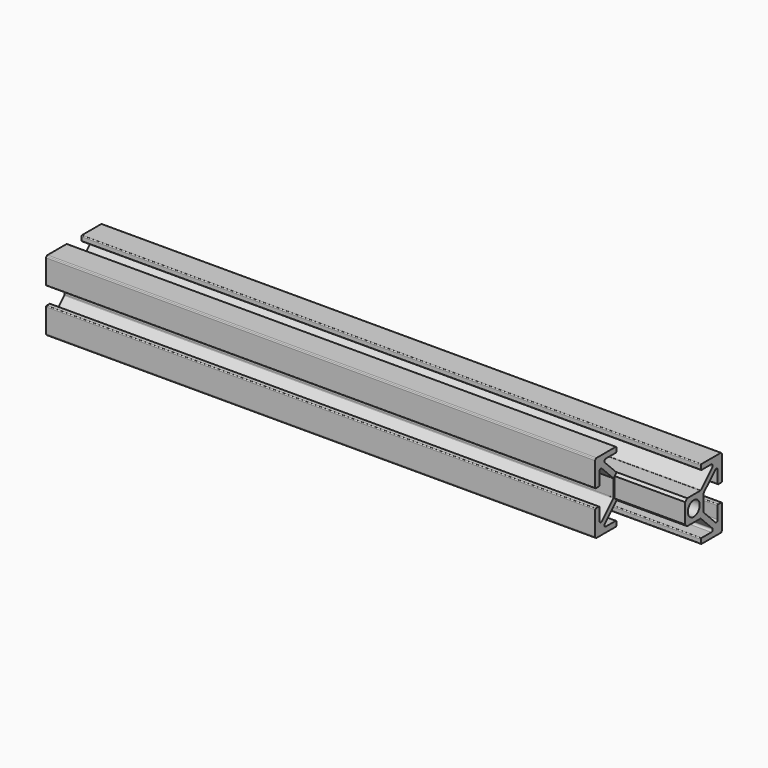
from build123d import *

# Parameters (mm, degrees)
F0_R     = 2.1
F1_DEPTH = 176
F3_DEPTH = 20
F4_R     = 1.8
F5_DEPTH = 3
F7_DEPTH = 3


with BuildPart() as f1:
    # F0 (on Right) → F1 (new body)
    with BuildSketch(Plane.YZ):
        with BuildLine():
            ThreePointArc((-3.0128, 9.379494), (-3.086023, 9.556271), (-3.2628, 9.629494))
            Line((-3.2628, 9.629494), (-10.0128, 9.629494))
            ThreePointArc((-10.0128, 9.629494), (-10.204141, 9.591434), (-10.366353, 9.483048))
            ThreePointArc((-10.366353, 9.483048), (-10.474739, 9.320836), (-10.5128, 9.129494))
            Line((-10.5128, 9.129494), (-10.5128, 2.379494))
            ThreePointArc((-10.5128, 2.379494), (-10.439576, 2.202718), (-10.2628, 2.129494))
            Line((-10.2628, 2.129494), (-9.259825, 2.129494))
            ThreePointArc((-9.259825, 2.129494), (-9.083049, 2.202718), (-9.009825, 2.379494))
            Line((-9.009825, 2.379494), (-9.009825, 5.807272))
            ThreePointArc((-9.009825, 5.807272), (-8.729049, 6.312544), (-8.159246, 6.215281))
            Line((-8.159246, 6.215281), (-4.086023, 2.142057))
            ThreePointArc((-4.086023, 2.142057), (-4.03183, 2.060952), (-4.0128, 1.965281))
            Line((-4.0128, 1.965281), (-4.0128, -2.706292))
            ThreePointArc((-4.0128, -2.706292), (-4.03183, -2.801963), (-4.086023, -2.883069))
            Line((-4.086023, -2.883069), (-8.159246, -6.956292))
            ThreePointArc((-8.159246, -6.956292), (-8.704141, -7.064679), (-9.0128, -6.602739))
            Line((-9.0128, -6.602739), (-9.0128, -3.120506))
            ThreePointArc((-9.0128, -3.120506), (-9.086023, -2.943729), (-9.2628, -2.870506))
            Line((-9.2628, -2.870506), (-10.2628, -2.870506))
            ThreePointArc((-10.2628, -2.870506), (-10.439576, -2.943729), (-10.5128, -3.120506))
            Line((-10.5128, -3.120506), (-10.5128, -9.870506))
            ThreePointArc((-10.5128, -9.870506), (-10.474739, -10.061847), (-10.366353, -10.224059))
            ThreePointArc((-10.366353, -10.224059), (-10.213025, -10.328665), (-10.032104, -10.370133))
            Line((-10.032104, -10.370133), (-3.249152, -10.370133))
            ThreePointArc((-3.249152, -10.370133), (-3.081262, -10.29239), (-3.0128, -10.120506))
            Line((-3.0128, -10.120506), (-3.0128, -9.120506))
            ThreePointArc((-3.0128, -9.120506), (-3.086023, -8.943729), (-3.2628, -8.870506))
            Line((-3.2628, -8.870506), (-6.745033, -8.870506))
            ThreePointArc((-6.745033, -8.870506), (-7.206973, -8.561847), (-7.098586, -8.016952))
            Line((-7.098586, -8.016952), (-3.025363, -3.943729))
            ThreePointArc((-3.025363, -3.943729), (-2.944257, -3.889536), (-2.848586, -3.870506))
            Line((-2.848586, -3.870506), (1.822987, -3.870506))
            ThreePointArc((1.822987, -3.870506), (1.918658, -3.889536), (1.999763, -3.943729))
            Line((1.999763, -3.943729), (6.072987, -8.016952))
            ThreePointArc((6.072987, -8.016952), (6.181373, -8.561847), (5.719433, -8.870506))
            Line((5.719433, -8.870506), (2.249763, -8.870506))
            ThreePointArc((2.249763, -8.870506), (2.072987, -8.943729), (1.999763, -9.120506))
            Line((1.999763, -9.120506), (1.999763, -10.120506))
            ThreePointArc((1.999763, -10.120506), (2.068226, -10.29239), (2.236116, -10.370133))
            Line((2.236116, -10.370133), (9.006504, -10.370133))
            ThreePointArc((9.006504, -10.370133), (9.187425, -10.328665), (9.340754, -10.224059))
            ThreePointArc((9.340754, -10.224059), (9.437101, -10.088655), (9.483749, -9.929152))
            Line((9.483749, -9.929152), (9.483749, -3.079108))
            ThreePointArc((9.483749, -3.079108), (9.398679, -2.929653), (9.2372, -2.870506))
            Line((9.2372, -2.870506), (8.2372, -2.870506))
            ThreePointArc((8.2372, -2.870506), (8.060424, -2.943729), (7.9872, -3.120506))
            Line((7.9872, -3.120506), (7.9872, -6.602739))
            ThreePointArc((7.9872, -6.602739), (7.678542, -7.064679), (7.133647, -6.956292))
            Line((7.133647, -6.956292), (3.060424, -2.883069))
            ThreePointArc((3.060424, -2.883069), (3.00623, -2.801963), (2.9872, -2.706292))
            Line((2.9872, -2.706292), (2.9872, 1.965281))
            ThreePointArc((2.9872, 1.965281), (3.00623, 2.060952), (3.060424, 2.142057))
            Line((3.060424, 2.142057), (7.133647, 6.215281))
            ThreePointArc((7.133647, 6.215281), (7.678542, 6.323667), (7.9872, 5.861727))
            Line((7.9872, 5.861727), (7.9872, 2.379494))
            ThreePointArc((7.9872, 2.379494), (8.060424, 2.202718), (8.2372, 2.129494))
            Line((8.2372, 2.129494), (9.2372, 2.129494))
            ThreePointArc((9.2372, 2.129494), (9.398679, 2.188642), (9.483749, 2.338097))
            Line((9.483749, 2.338097), (9.483749, 9.188141))
            ThreePointArc((9.483749, 9.188141), (9.437101, 9.347644), (9.340754, 9.483048))
            ThreePointArc((9.340754, 9.483048), (9.178542, 9.591434), (8.9872, 9.629494))
            Line((8.9872, 9.629494), (2.2372, 9.629494))
            ThreePointArc((2.2372, 9.629494), (2.060424, 9.556271), (1.9872, 9.379494))
            Line((1.9872, 9.379494), (1.9872, 8.379494))
            ThreePointArc((1.9872, 8.379494), (1.990361, 8.339866), (1.999763, 8.30124))
            ThreePointArc((1.999763, 8.30124), (2.09068, 8.176931), (2.2372, 8.129494))
            Line((2.2372, 8.129494), (5.719433, 8.129494))
            ThreePointArc((5.719433, 8.129494), (6.181373, 7.820836), (6.072987, 7.275941))
            Line((6.072987, 7.275941), (1.999763, 3.202718))
            ThreePointArc((1.999763, 3.202718), (1.918658, 3.148524), (1.822987, 3.129494))
            Line((1.822987, 3.129494), (-2.848586, 3.129494))
            ThreePointArc((-2.848586, 3.129494), (-2.944257, 3.148524), (-3.025363, 3.202718))
            Line((-3.025363, 3.202718), (-7.098586, 7.275941))
            ThreePointArc((-7.098586, 7.275941), (-7.206973, 7.820836), (-6.745033, 8.129494))
            Line((-6.745033, 8.129494), (-3.2628, 8.129494))
            ThreePointArc((-3.2628, 8.129494), (-3.086023, 8.202718), (-3.0128, 8.379494))
            Line((-3.0128, 8.379494), (-3.0128, 8.879494))
            Line((-3.0128, 8.879494), (-3.0128, 9.379494))
        make_face()
        with Locations((-0.5128, -0.370506)):
            Circle(F0_R, mode=Mode.SUBTRACT)
    extrude(amount=F1_DEPTH)

    # F2 (on face) → F3 (cut)
    with BuildSketch(Plane.YZ.offset(176)):
        Polygon((-3.0128, 9.629494), (-4.0128, 9.629494), (-10.5128, 9.629494), (-10.5128, -10.370133), (-4.0128, -10.370133), (-3.0128, -10.370133), (-3.0128, -8.870506), (-2.848586, -3.870506), (-3.578855, -3.140237), (-3.578855, 2.459237), (-2.848586, 3.129494), (-3.0128, 8.129494), align=None)
    extrude(amount=-F3_DEPTH, mode=Mode.SUBTRACT)

    # F4 (on face) → F5 (cut)
    with BuildSketch(Plane(origin=(0, 2.9872, 0), x_dir=(-1, 0, 0), z_dir=(0, 1, 0))):
        with Locations((-166, -0.370506)):
            Circle(F4_R)
        with Locations((-10, -0.370506)):
            Circle(F4_R)
    extrude(amount=-F5_DEPTH, mode=Mode.SUBTRACT)

    # F6 (on face) → F7 (cut)
    with BuildSketch(Plane.XY.offset(3.129494)):
        with BuildLine():
            ThreePointArc((139.2, -0.5128), (141, -2.3128), (142.8, -0.5128))
            Line((142.8, -0.5128), (139.2, -0.5128))
        make_face()
        with BuildLine():
            Line((139.2, -0.5128), (142.8, -0.5128))
            ThreePointArc((142.8, -0.5128), (141, 1.2872), (139.2, -0.5128))
        make_face()
        with BuildLine():
            ThreePointArc((29.2, -0.5128), (31, -2.3128), (32.8, -0.5128))
            Line((32.8, -0.5128), (29.2, -0.5128))
        make_face()
        with BuildLine():
            Line((29.2, -0.5128), (32.8, -0.5128))
            ThreePointArc((32.8, -0.5128), (31, 1.2872), (29.2, -0.5128))
        make_face()
        with BuildLine():
            ThreePointArc((64.2, -0.5128), (66, -2.3128), (67.8, -0.5128))
            Line((67.8, -0.5128), (64.2, -0.5128))
        make_face()
        with BuildLine():
            Line((64.2, -0.5128), (67.8, -0.5128))
            ThreePointArc((67.8, -0.5128), (66, 1.2872), (64.2, -0.5128))
        make_face()
        with BuildLine():
            ThreePointArc((104.2, -0.5128), (106, -2.3128), (107.8, -0.5128))
            Line((107.8, -0.5128), (104.2, -0.5128))
        make_face()
        with BuildLine():
            Line((104.2, -0.5128), (107.8, -0.5128))
            ThreePointArc((107.8, -0.5128), (106, 1.2872), (104.2, -0.5128))
        make_face()
    extrude(amount=-F7_DEPTH, mode=Mode.SUBTRACT)


solid = f1.part
